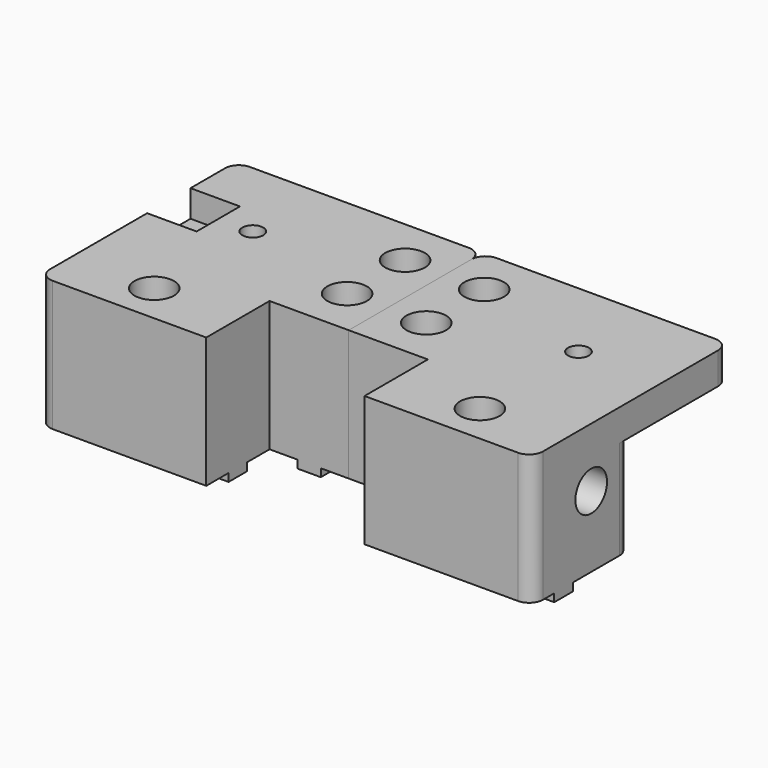
from build123d import *

# Parameters (mm, degrees)
F0_R      = 2.65
F1_DEPTH  = 33
F2_R      = 5
F3_DEPTH  = 12
F5_DEPTH  = 29
F6_R      = 5
F7_DEPTH  = 29
F8_R      = 2.65
F8_W      = 42.3
F8_H      = 5.9
F9_DEPTH  = 2
F10_R     = 3.5
F11_W     = 31.15
F11_H     = 25
F12_DEPTH = 42
F13_R     = 3.5
F15_W     = 7.5
F15_H     = 13.7
F15_W_2   = 5
F16_DEPTH = 6.8
F17_R     = 1.25
F18_DEPTH = 8
F19_R     = 2
F20_DEPTH = 30


with BuildPart() as f1:
    # F0 (on Top) → F1 (new body)
    with BuildSketch(Plane.XY):
        Polygon((41.15, 35), (-21.15, 35), (-21.15, -27.3), (21.15, -27.3), (21.15, -7.3), (41.15, -7.3), align=None)
        with Locations((0, -17.3)):
            Circle(F0_R, mode=Mode.SUBTRACT)
        with Locations((0, 13.85)):
            Circle(F0_R, mode=Mode.SUBTRACT)
        with Locations((31.15, 4.7)):
            Circle(F0_R, mode=Mode.SUBTRACT)
        with Locations((31.15, 23)):
            Circle(F0_R, mode=Mode.SUBTRACT)
    extrude(amount=F1_DEPTH)

    # F2 (on face) → F3 (cut)
    with BuildSketch(Plane(origin=(-21.15, 0, 0), x_dir=(0, -1, 0), z_dir=(-1, 0, 0))):
        with Locations((8.575, 18)):
            Circle(F2_R)
    extrude(amount=-F3_DEPTH, mode=Mode.SUBTRACT)

    # F4 (on face) → F5 (cut)
    with BuildSketch(Plane(origin=(0, 0, 0), x_dir=(1, 0, 0), z_dir=(0, 0, -1))):
        Polygon((-3.95, -11.5694664367), (-3.95, -16.1305335633), (0, -18.4110671266), (3.95, -16.1305335633), (3.95, -11.5694664367), (0, -9.2889328734), align=None)
    extrude(amount=-F5_DEPTH, mode=Mode.SUBTRACT)

    # F6 (on face) → F7 (cut)
    with BuildSketch(Plane.XY.offset(33)):
        with Locations((31.15, 23)):
            Circle(F6_R)
        with Locations((31.15, 4.7)):
            Circle(F6_R)
        with Locations((0, -17.3)):
            Circle(F6_R)
    extrude(amount=-F7_DEPTH, mode=Mode.SUBTRACT)

    # F8 (on face) → F9 (join)
    with BuildSketch(Plane(origin=(0, 0, 0), x_dir=(1, 0, 0), z_dir=(0, 0, -1))):
        Polygon((34.1, 7.3), (28.2, 7.3), (28.2, -13.5680906466), (28.2, -35), (34.1, -35), (34.1, -13.5680906466), align=None)
        with Locations((31.15, -23)):
            Circle(F8_R, mode=Mode.SUBTRACT)
        with Locations((31.15, -4.7)):
            Circle(F8_R, mode=Mode.SUBTRACT)
        with Locations((0, 17.3)):
            Rectangle(F8_W, F8_H)
        with Locations((0, 17.3)):
            Circle(F8_R, mode=Mode.SUBTRACT)
    extrude(amount=F9_DEPTH)

    # F10
    f10_edges = [f1.edges().sort_by_distance(p)[0] for p in [
        (-21.15, -27.3, 16.5),
        (-21.15, 35, 16.5),
        (41.15, 35, 16.5),
    ]]
    fillet(f10_edges, radius=F10_R)

    # F11 (on face) → F12 (cut)
    with BuildSketch(Plane(origin=(-21.15, 0, 0), x_dir=(0, -1, 0), z_dir=(-1, 0, 0))):
        with Locations((-19.425, 12.5)):
            Rectangle(F11_W, F11_H)
    extrude(amount=-F12_DEPTH, mode=Mode.SUBTRACT)

    # F13
    f13_edges = [f1.edges().sort_by_distance(p)[0] for p in [
        (-21.15, 3.85, 12.5),
        (20.85, 3.85, 12.5),
        (20.85, 35, 12.5),
    ]]
    fillet(f13_edges, radius=F13_R)


with BuildPart() as f14_1:
    # F14: instance of F1
    add(f1.part.mirror(Plane(origin=(41.15, 12.1, 16.5), x_dir=(0, 1, 0), z_dir=(1, 0, 0))))


with BuildPart() as f1_1:
    add(f1.part)

    # F15 (on face) → F16 (cut)
    with BuildSketch(Plane.XY.offset(33)):
        with Locations((-17.4, 13.75)):
            Rectangle(F15_W, F15_H)
        with Locations((-11.15, 13.75)):
            Rectangle(F15_W_2, F15_H)
    extrude(amount=-F16_DEPTH, mode=Mode.SUBTRACT)

    # F17 (on face) → F18 (cut)
    with BuildSketch(Plane.XY.offset(26.2)):
        with Locations((-15.15, 17)):
            Circle(F17_R)
        with Locations((-15.15, 10.5)):
            Circle(F17_R)
    extrude(amount=-F18_DEPTH, mode=Mode.SUBTRACT)

    # F19 (on face) → F20 (cut)
    with BuildSketch(Plane.XY.offset(26.2)):
        with Locations((-10.65, 13.75)):
            Circle(F19_R)
    extrude(amount=-F20_DEPTH, mode=Mode.SUBTRACT)


solid = Compound([f14_1.part, f1_1.part])
